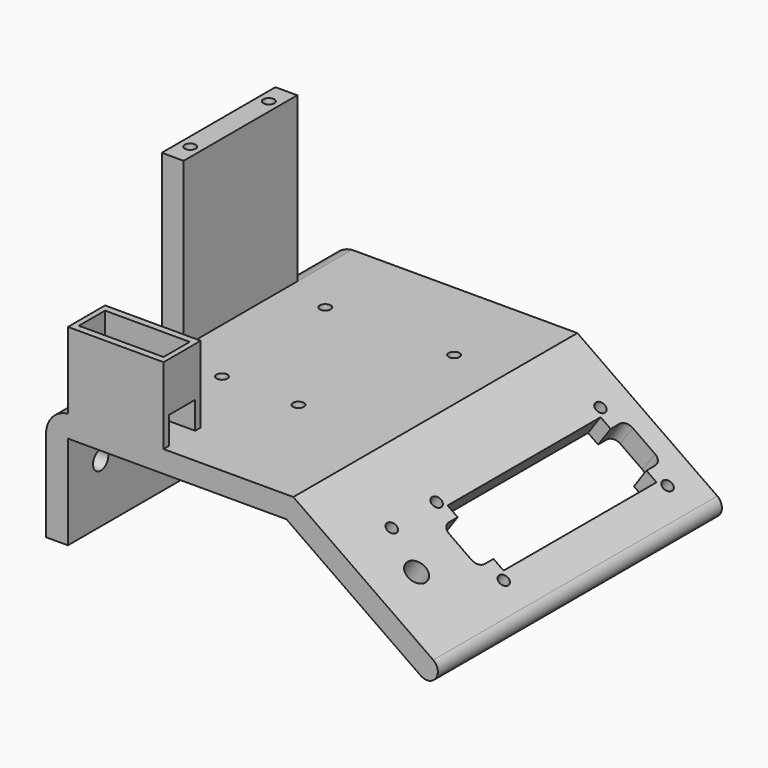
from build123d import *

# Parameters (mm, degrees)
F1_DEPTH       = 80
F1_DEPTH_BACK  = 50
F2_R           = 2
F3_DEPTH       = 25
F4_R           = 2
F5_DEPTH       = 25
F6_W           = 35
F6_H           = 17
F6_W_2         = 31
F6_H_2         = 12
F7_DEPTH       = 28
F8_W           = 6
F8_H           = 10
F9_DEPTH       = 43.001
F10_R          = 4
F10_R_2        = 2
F11_DEPTH      = 25
F12_R          = 3.5
F13_DEPTH      = 8
F14_W          = 8
F14_H          = 52
F15_DEPTH      = 60
F15_DEPTH_BACK = 25
F16_R          = 2
F17_DEPTH      = 25


with BuildPart() as f1:
    # F0 (on Front) → F1 (new body, two sides)
    with BuildSketch(Plane.XZ) as f1_sk:
        with BuildLine():
            Line((40, 34.4145861811), (89.1491226573, 0))
            ThreePointArc((89.1491226573, 0), (94.7200365799, 0.9823024318), (93.7377341481, 6.5532163543))
            Line((93.7377341481, 6.5532163543), (42.522390311, 42.4145861811))
            Line((42.522390311, 42.4145861811), (-40, 42.4145861811))
            ThreePointArc((-40, 42.4145861811), (-45.7082039325, 39.4703142711), (-48, 33.4703142711))
            Line((-48, 33.4703142711), (-48, 0))
            Line((-48, 0), (-40, 0))
            Line((-40, 0), (-40, 34.4145861811))
            Line((-40, 34.4145861811), (40, 34.4145861811))
        make_face()
    extrude(amount=F1_DEPTH)
    extrude(f1_sk.sketch, amount=-F1_DEPTH_BACK)

    # F2 (on face) → F3 (cut)
    with BuildSketch(Plane(origin=(33.9177749652, 0, 48.4396027096), x_dir=(0.8191520443, 0, -0.5735764364), z_dir=(0.5735764364, 0, 0.8191520443))):
        with BuildLine():
            Line((35.5266860713, 35), (35.5266860713, -35))
            Line((35.5266860713, -35), (40.0266860713, -35))
            Line((40.0266860713, -35), (40.0266860713, -39))
            ThreePointArc((40.0266860713, -39), (40.9053657278, -41.1213203436), (43.0266860713, -42))
            Line((43.0266860713, -42), (53.0266860713, -42))
            ThreePointArc((53.0266860713, -42), (55.1480064149, -41.1213203436), (56.0266860713, -39))
            Line((56.0266860713, -39), (56.0266860713, -35))
            Line((56.0266860713, -35), (60.5266860713, -35))
            Line((60.5266860713, -35), (60.5266860713, 35))
            Line((60.5266860713, 35), (56.0266860713, 35))
            Line((56.0266860713, 35), (40.0266860713, 35))
            Line((40.0266860713, 35), (35.5266860713, 35))
        make_face()
        with BuildLine():
            Line((40.0266860713, 35.0351855159), (40.0266860713, 35))
            Line((40.0266860713, 35), (56.0266860713, 35))
            Line((56.0266860713, 35), (56.0266860713, 39))
            ThreePointArc((56.0266860713, 39), (55.1480064149, 41.1213203436), (53.0266860713, 42))
            Line((53.0266860713, 42), (43.0266860713, 42))
            ThreePointArc((43.0266860713, 42), (40.9053657278, 41.1213203436), (40.0266860713, 39))
            Line((40.0266860713, 39), (40.0266860713, 35.0351855159))
        make_face()
        with Locations((33.0266860713, -37.5)):
            Circle(F2_R)
        with Locations((33.0266860713, 37.5)):
            Circle(F2_R)
        with Locations((63.0266860713, 37.5)):
            Circle(F2_R)
        with Locations((63.0266860713, -37.5)):
            Circle(F2_R)
    extrude(amount=-F3_DEPTH, mode=Mode.SUBTRACT)

    # F4 (on face) → F5 (cut)
    with BuildSketch(Plane.XY.offset(42.4145861811)):
        with Locations((8, -34.4999909401)):
            Circle(F4_R)
        with Locations((-20, -34.4999909401)):
            Circle(F4_R)
        with Locations((23.5, 17.4000090599)):
            Circle(F4_R)
        with Locations((-23.7, 17.4000090599)):
            Circle(F4_R)
    extrude(amount=-F5_DEPTH, mode=Mode.SUBTRACT)

    # F6 (on face) → F7 (join)
    with BuildSketch(Plane.XY.offset(42.4145861811)):
        with Locations((-22.5, -71.5)):
            Rectangle(F6_W, F6_H)
        with Locations((-22.5, -71.5)):
            Rectangle(F6_W_2, F6_H_2, mode=Mode.SUBTRACT)
    extrude(amount=F7_DEPTH)

    # F8 (on face) → F9 (cut, through all)
    with BuildSketch(Plane.YZ.offset(-5)):
        with Locations((-74.5, 47.4145861811)):
            Rectangle(F8_W, F8_H)
        with Locations((-68.5, 47.4145861811)):
            Rectangle(F8_W, F8_H)
    extrude(amount=-F9_DEPTH, mode=Mode.SUBTRACT)

    # F10 (on face) → F11 (cut)
    with BuildSketch(Plane(origin=(33.9177749652, 0, 48.4396027096), x_dir=(0.8191520443, 0, -0.5735764364), z_dir=(0.5735764364, 0, 0.8191520443))):
        with Locations((48.0266860713, -62)):
            Circle(F10_R)
        with Locations((33.0266860713, -58)):
            Circle(F10_R_2)
    extrude(amount=-F11_DEPTH, mode=Mode.SUBTRACT)

    # F12 (on face) → F13 (cut, through all)
    with BuildSketch(Plane(origin=(-48, 0, 0), x_dir=(0, -1, 0), z_dir=(-1, 0, 0))):
        with Locations((-35, 21.4703142711)):
            Circle(F12_R)
        with Locations((65, 21.4703142711)):
            Circle(F12_R)
    extrude(amount=-F13_DEPTH, mode=Mode.SUBTRACT)

    # F14 (on face) → F15 (join, two sides)
    with BuildSketch(Plane.XY.offset(42.4145861811)) as f15_sk:
        with Locations((-44, -1.0492918789)):
            Rectangle(F14_W, F14_H)
    extrude(amount=F15_DEPTH)
    extrude(f15_sk.sketch, amount=-F15_DEPTH_BACK)

    # F16 (on face) → F17 (cut)
    with BuildSketch(Plane.XY.offset(102.4145861811)):
        with Locations((-44, -19.0492918789)):
            Circle(F16_R)
        with Locations((-44, 16.9507081211)):
            Circle(F16_R)
    extrude(amount=-F17_DEPTH, mode=Mode.SUBTRACT)


solid = f1.part
